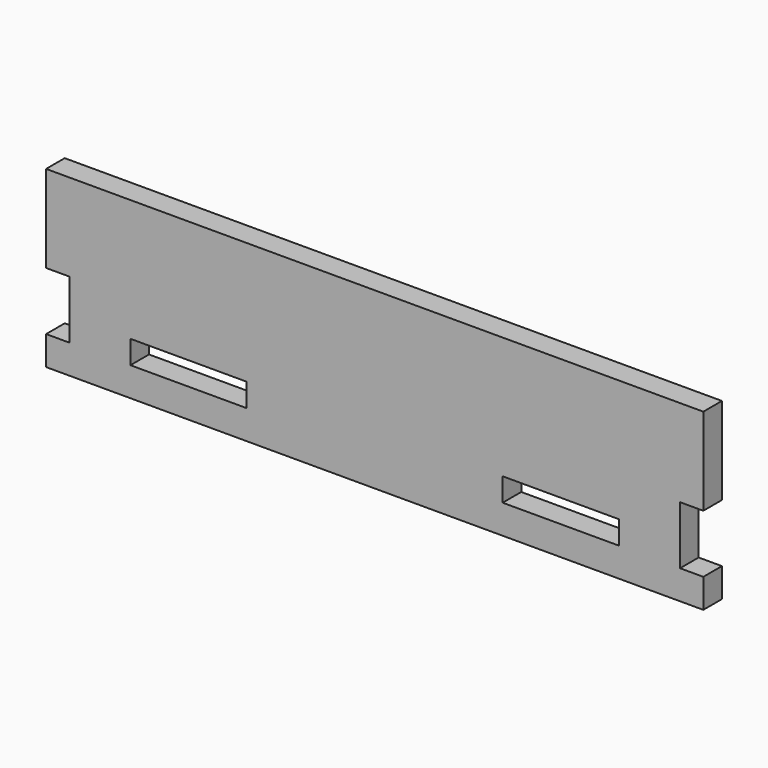
from build123d import *

# Parameters (mm, degrees)
F0_W     = 20
F0_H     = 4
F1_DEPTH = 4


with BuildPart() as f1:
    # F0 (on Front) → F1 (new body)
    with BuildSketch(Plane.XZ):
        Polygon((56.5, 0), (56.5, 15), (-56.5, 15), (-56.5, 0), (-52.5, 0), (-52.5, -10), (-56.5, -10), (-56.5, -15), (56.5, -15), (56.5, -10), (52.5, -10), (52.5, 0), align=None)
        with Locations((-32, -8)):
            Rectangle(F0_W, F0_H, mode=Mode.SUBTRACT)
        with Locations((32, -8)):
            Rectangle(F0_W, F0_H, mode=Mode.SUBTRACT)
    extrude(amount=F1_DEPTH)


solid = f1.part
